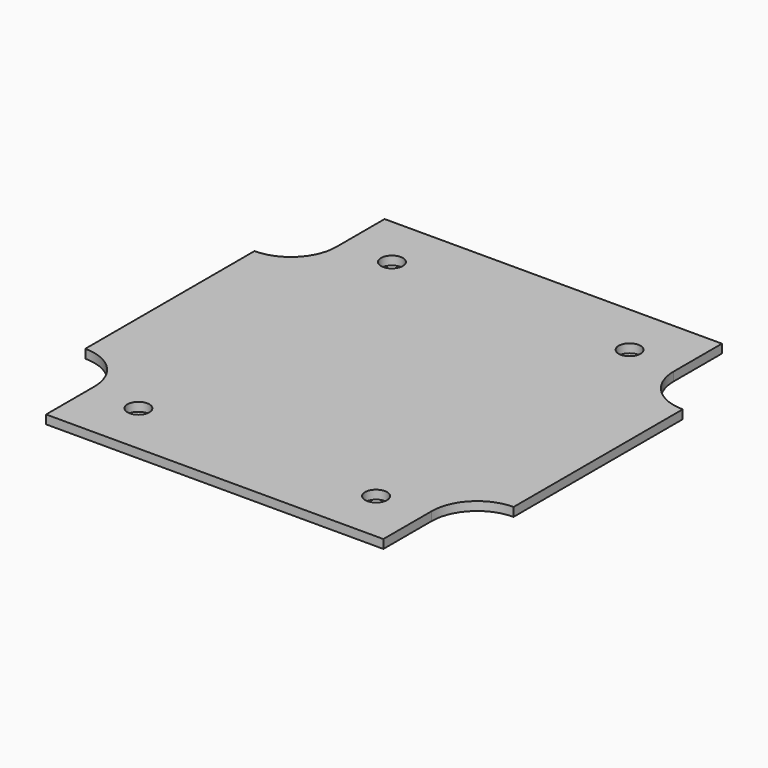
from build123d import *

# Parameters (mm, degrees)
F1_DEPTH = 1.6
F2_R     = 2
F3_DEPTH = 25


with BuildPart() as f1:
    # F0 (on Top) → F1 (new body)
    with BuildSketch(Plane.XY):
        with BuildLine():
            Line((30.875, 38.735), (-30.875, 38.735))
            Line((-30.875, 38.735), (-30.875, 27.685))
            ThreePointArc((-30.875, 27.685), (-33.314801, 21.794801), (-39.205, 19.355))
            Line((-39.205, 19.355), (-39.205, -19.355))
            ThreePointArc((-39.205, -19.355), (-33.314801, -21.794801), (-30.875, -27.685))
            Line((-30.875, -27.685), (-30.875, -38.735))
            Line((-30.875, -38.735), (30.875, -38.735))
            Line((30.875, -38.735), (30.875, -27.685))
            ThreePointArc((30.875, -27.685), (33.314801, -21.794801), (39.205, -19.355))
            Line((39.205, -19.355), (39.205, 19.355))
            ThreePointArc((39.205, 19.355), (33.314801, 21.794801), (30.875, 27.685))
            Line((30.875, 27.685), (30.875, 38.735))
        make_face()
    extrude(amount=F1_DEPTH)

    # F2 (on face) → F3 (cut)
    with BuildSketch(Plane.XY.offset(1.6)):
        with Locations((-21.755, 29.005)):
            Circle(F2_R)
        with Locations((21.755, 29.005)):
            Circle(F2_R)
        with Locations((-21.755, -29.005)):
            Circle(F2_R)
        with Locations((21.755, -29.005)):
            Circle(F2_R)
    extrude(amount=-F3_DEPTH, mode=Mode.SUBTRACT)


solid = f1.part
